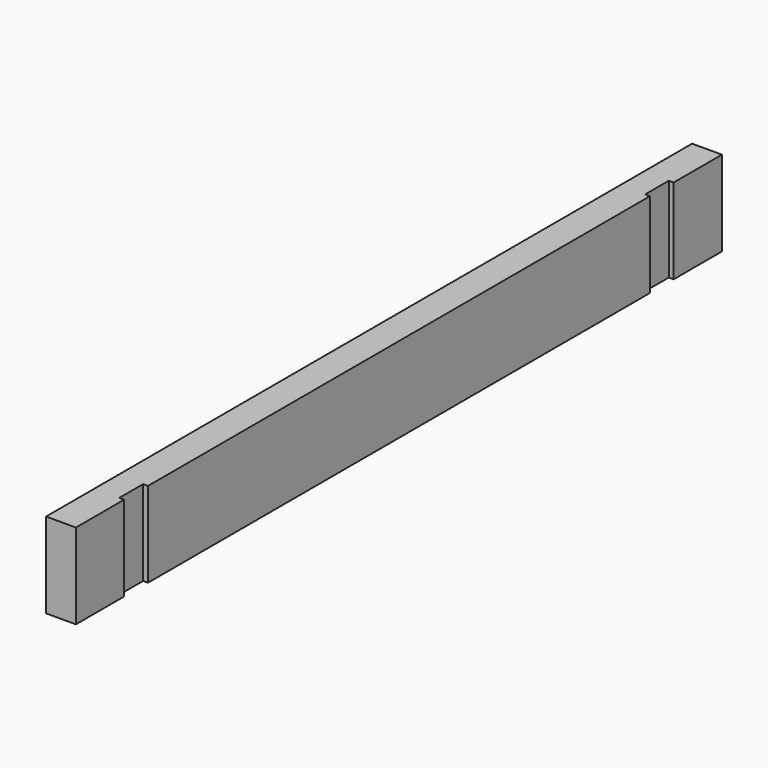
from build123d import *

# Parameters (mm, degrees)
F0_W     = 43
F0_H     = 123
F1_DEPTH = 1165
F2_W     = 43
F2_H     = 123
F3_DEPTH = 7


with BuildPart() as f1:
    # F0 (on Front) → F1 (new body)
    with BuildSketch(Plane.XZ):
        with Locations((0, -4.886357)):
            Rectangle(F0_W, F0_H)
    extrude(amount=F1_DEPTH)

    # F2 (on face) → F3 (cut)
    with BuildSketch(Plane.YZ.offset(21.5)):
        with Locations((-1056.5, -4.886357)):
            Rectangle(F2_W, F2_H)
        with Locations((-108.5, -4.886357)):
            Rectangle(F2_W, F2_H)
    extrude(amount=-F3_DEPTH, mode=Mode.SUBTRACT)


solid = f1.part
